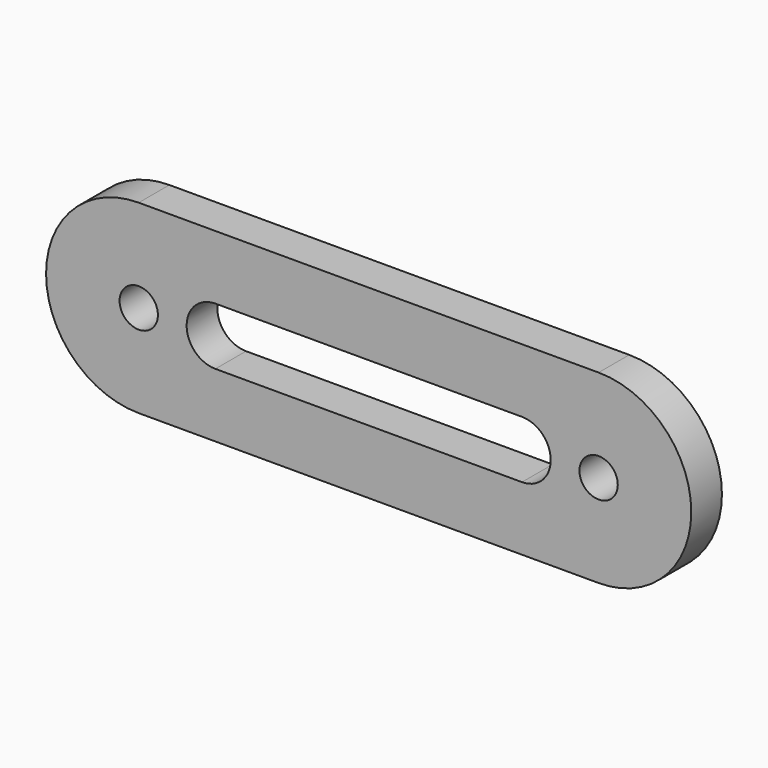
from build123d import *

# Parameters (mm, degrees)
F0_R     = 3.175
F1_DEPTH = 6.35


with BuildPart() as f1:
    # F0 (on Front) → F1 (new body)
    with BuildSketch(Plane.XZ):
        with BuildLine():
            ThreePointArc((38.1, -15.350756), (53.450756, 0), (38.1, 15.350756))
            Line((38.1, 15.350756), (-38.1, 15.350756))
            ThreePointArc((-38.1, 15.350756), (-53.450756, 0), (-38.1, -15.350756))
            Line((-38.1, -15.350756), (38.1, -15.350756))
        make_face()
        with Locations((-38.1, 0)):
            Circle(F0_R, mode=Mode.SUBTRACT)
        with BuildLine():
            Line((-25.4, 4.7625), (25.4, 4.7625))
            ThreePointArc((25.4, 4.7625), (30.1625, 0), (25.4, -4.7625))
            Line((25.4, -4.7625), (-25.4, -4.7625))
            ThreePointArc((-25.4, -4.7625), (-30.1625, 0), (-25.4, 4.7625))
        make_face(mode=Mode.SUBTRACT)
        with Locations((38.1, 0)):
            Circle(F0_R, mode=Mode.SUBTRACT)
        with BuildLine():
            ThreePointArc((38.1, -15.350756), (53.450756, 0), (38.1, 15.350756))
            Line((38.1, 15.350756), (-38.1, 15.350756))
            ThreePointArc((-38.1, 15.350756), (-53.450756, 0), (-38.1, -15.350756))
            Line((-38.1, -15.350756), (38.1, -15.350756))
        make_face()
        with Locations((-38.1, 0)):
            Circle(F0_R, mode=Mode.SUBTRACT)
        with BuildLine():
            Line((-25.4, 4.7625), (25.4, 4.7625))
            ThreePointArc((25.4, 4.7625), (30.1625, 0), (25.4, -4.7625))
            Line((25.4, -4.7625), (-25.4, -4.7625))
            ThreePointArc((-25.4, -4.7625), (-30.1625, 0), (-25.4, 4.7625))
        make_face(mode=Mode.SUBTRACT)
        with Locations((38.1, 0)):
            Circle(F0_R, mode=Mode.SUBTRACT)
    extrude(amount=F1_DEPTH)


solid = f1.part
